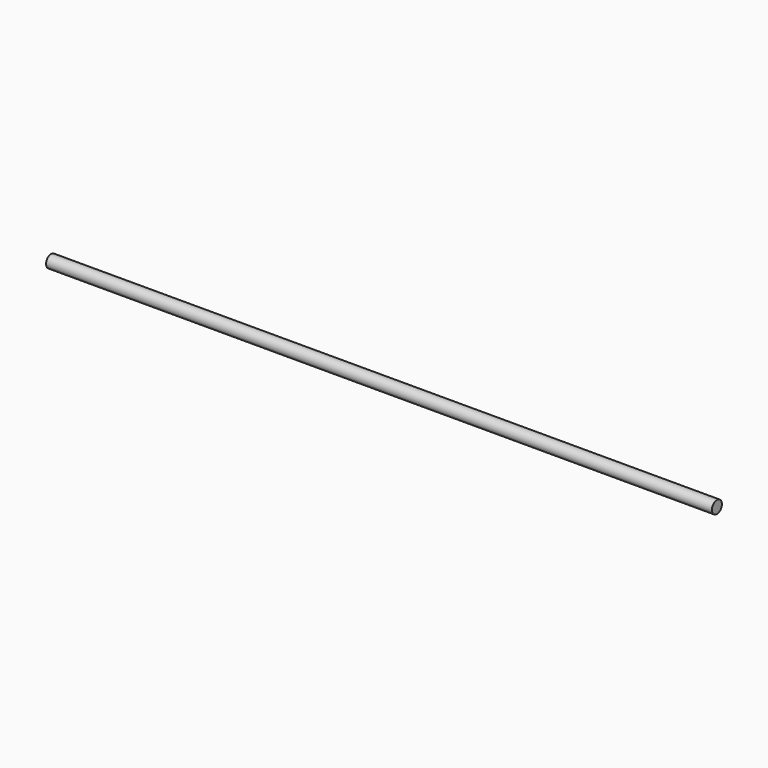
from build123d import *

# Parameters (mm, degrees)
SKETCH_R  = 3
PAD_DEPTH = 160


with BuildPart() as part:
    # Sketch → Pad (new body, symmetric)
    with BuildSketch(Plane.YZ):
        Circle(SKETCH_R)
    extrude(amount=PAD_DEPTH, both=True)


solid = part.part
